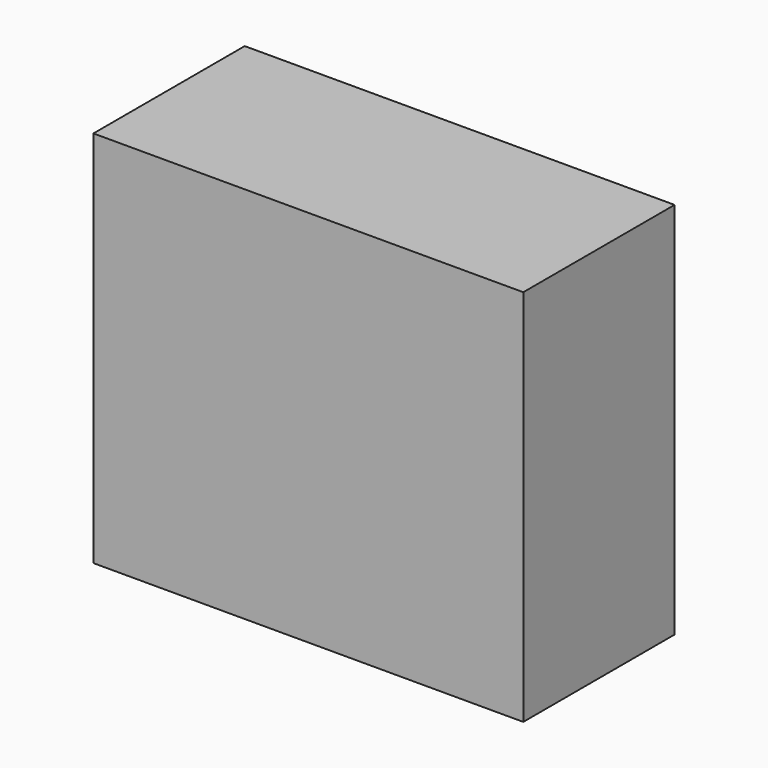
from build123d import *

# Parameters (mm, degrees)
F1_W     = 50
F1_H     = 44
F2_DEPTH = 22
F3_R     = 5
F4_DEPTH = 30


with BuildPart() as f2:
    # F1 (on offset) → F2 (new body)
    with BuildSketch(Plane.XZ.offset(25.4)):
        with Locations((10.24673, 18.708916)):
            Rectangle(F1_W, F1_H)
    extrude(amount=F2_DEPTH)

    # F3 (on face) → F4 (cut)
    with BuildSketch(Plane(origin=(0, 0, -3.291084), x_dir=(1, 0, 0), z_dir=(0, 0, -1))):
        with Locations((27.74673, 36.4)):
            Circle(F3_R)
        with Locations((-7.25327, 36.4)):
            Circle(F3_R)
    extrude(amount=-F4_DEPTH, mode=Mode.SUBTRACT)


solid = f2.part
